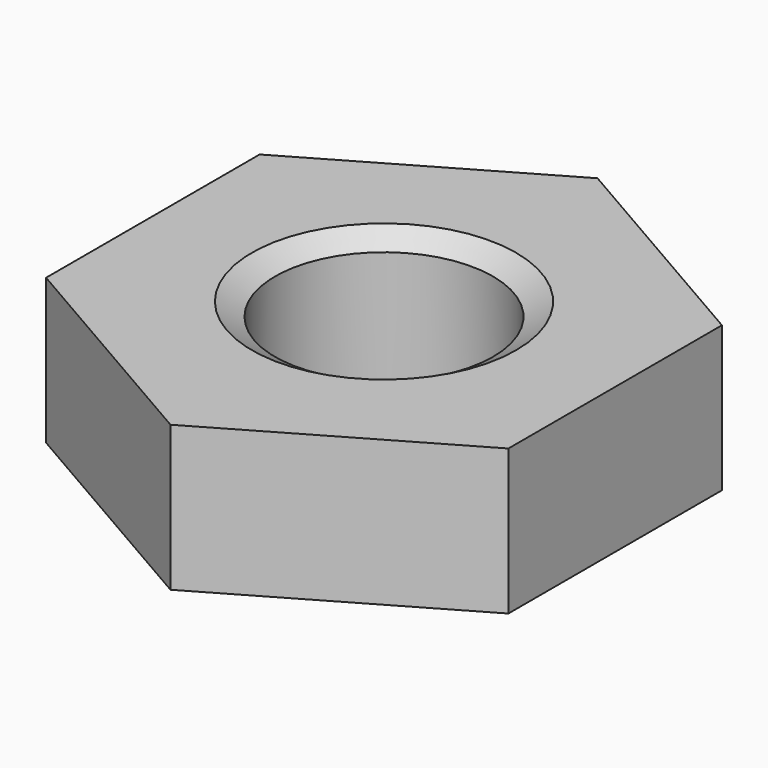
from build123d import *

# Parameters (mm, degrees)
SKETCH001_R  = 4.5
POCKET_DEPTH = 2.2


with BuildPart() as part:
    # Sketch → Revolution (revolve)
    with BuildSketch(Plane.XZ):
        Polygon((2, 0), (1.65, 0.202073), (1.65, 1.997927), (2, 2.2), (4.5, 2.2), (4.5, 0), align=None)
    revolve(axis=Axis((0, 0, 0), (0, 0, 1)))

    # Sketch001 → Pocket (cut)
    with BuildSketch(Plane(origin=(0, 0, 2.2), x_dir=(-1, 0, 0), z_dir=(0, 0, 1))):
        Circle(SKETCH001_R)
        Polygon((-3.5, 2.020726), (-3.5, -2.020726), (0, -4.041452), (3.5, -2.020726), (3.5, 2.020726), (0, 4.041452), align=None, mode=Mode.SUBTRACT)
    extrude(amount=-POCKET_DEPTH, mode=Mode.SUBTRACT)


solid = part.part
